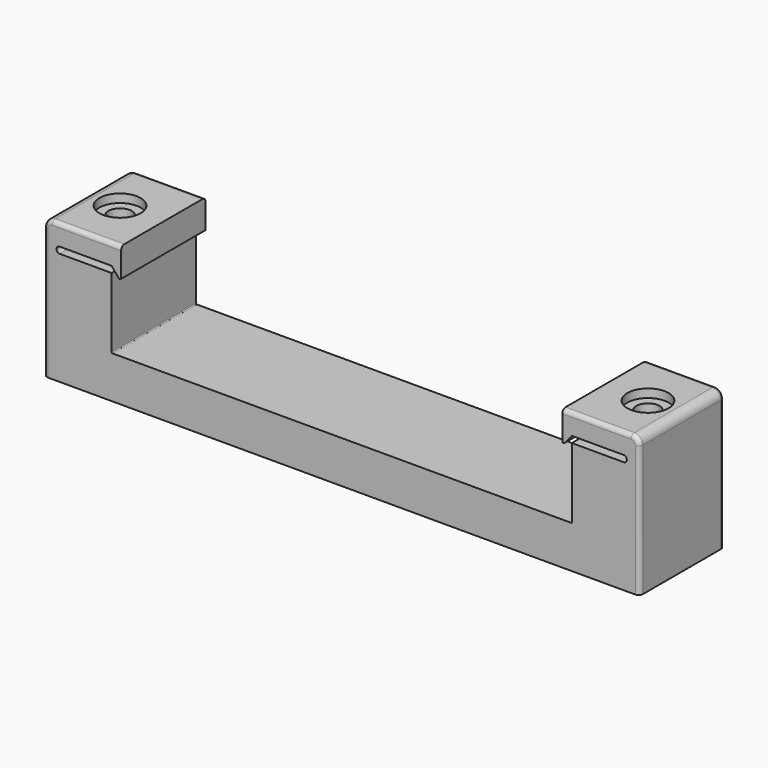
from build123d import *

# Parameters (mm, degrees)
F1_DEPTH       = 12.5
F4_D           = 5.5
F4_CBORE_D     = 9.75
F4_CBORE_DEPTH = 2
F5_R           = 2
F6_R           = 1


with BuildPart() as f1:
    # F0 (on Front) → F1 (new body, symmetric)
    with BuildSketch(Plane.XZ):
        with BuildLine():
            Line((0, 33), (0, 0))
            Line((0, 0), (70.4, 0))
            Line((70.4, 0), (70.4, 10))
            Line((70.4, 10), (16.2, 10))
            ThreePointArc((16.2, 10), (16.0585786438, 10.0585786438), (16, 10.2))
            Line((16, 10.2), (16, 26.6572023575))
            Line((16, 26.6572023575), (3.75, 26.6572023575))
            ThreePointArc((3.75, 26.6572023575), (3, 27.4072023575), (3.75, 28.1572023575))
            Line((3.75, 28.1572023575), (16, 28.1572023575))
            Line((16, 28.1572023575), (17.7201866671, 26.1071637171))
            ThreePointArc((17.7201866671, 26.1071637171), (18.052606043, 26.0180922138), (18.25, 26.3))
            Line((18.25, 26.3), (18.25, 33))
            Line((18.25, 33), (0, 33))
        make_face()
    extrude(amount=F1_DEPTH, both=True)

    # F4 (through all)
    with Locations(Plane.XY.offset(33)):
        with Locations((8, 0)):
            CounterBoreHole(F4_D / 2, F4_CBORE_D / 2, F4_CBORE_DEPTH)

    # F5
    f5_edges = [f1.edges().sort_by_distance(p)[0] for p in [
        (0, 0, 33),
    ]]
    fillet(f5_edges, radius=F5_R)

    # F6
    f6_edges = [f1.edges().sort_by_distance(p)[0] for p in [
        (10.125, -12.5, 33),
        (0.585786, -12.5, 32.414214),
        (0, -12.5, 15.5),
        (10.125, 12.5, 33),
        (0.585786, 12.5, 32.414214),
        (0, 12.5, 15.5),
    ]]
    fillet(f6_edges, radius=F6_R)

    # F7: F1 across plane


with BuildPart() as f1_1:
    add(f1.part)
    add(f1.part.mirror(Plane(origin=(70.4, 0, 5), x_dir=(0, 1, 0), z_dir=(1, 0, 0))))


solid = f1_1.part
